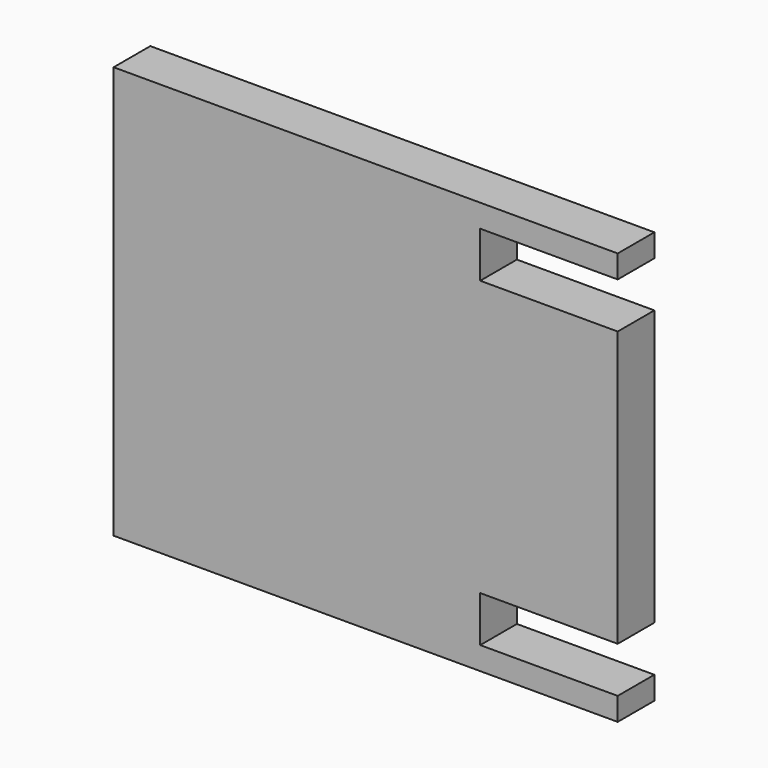
from build123d import *

# Parameters (mm, degrees)
F0_W     = 101.6
F0_H     = 50.8
F0_H_2   = 12.7
F0_H_3   = 76.2
F1_DEPTH = 12.7
F2_W     = 50.8
F2_H     = 203.2
F3_DEPTH = 25.4
F4_W     = 12.7
F4_H     = 50.8
F4_H_2   = 76.2
F5_DEPTH = 25.4
F6_W     = 139.7
F6_H     = 44.45
F7_DEPTH = 25.4


with BuildPart() as f1:
    # F0 (on Front) → F1 (new body)
    with BuildSketch(Plane.XZ):
        with Locations((-41.9671071525, -12.46464407)):
            Rectangle(F0_W, F0_H)
        with Locations((59.6328928475, -12.46464407)):
            Rectangle(F0_W, F0_H)
        with Locations((-41.9671071525, 139.93535593)):
            Rectangle(F0_W, F0_H)
        with Locations((59.6328928475, 139.93535593)):
            Rectangle(F0_W, F0_H)
        with Locations((-41.9671071525, 19.28535593)):
            Rectangle(F0_W, F0_H_2)
        with Locations((-41.9671071525, 63.73535593)):
            Rectangle(F0_W, F0_H_3)
        with Locations((-41.9671071525, 108.18535593)):
            Rectangle(F0_W, F0_H_2)
        with Locations((59.6328928475, 63.73535593)):
            Rectangle(F0_W, F0_H_3)
    extrude(amount=-F1_DEPTH)

    # F2 (on face) → F3 (cut)
    with BuildSketch(Plane.XZ):
        with Locations((85.0328928475, 63.73535593)):
            Rectangle(F2_W, F2_H)
    extrude(amount=-F3_DEPTH, mode=Mode.SUBTRACT)

    # F4 (on face) → F5 (cut)
    with BuildSketch(Plane.XZ):
        with Locations((53.2828928475, 139.93535593)):
            Rectangle(F4_W, F4_H)
        with Locations((53.2828928475, -12.46464407)):
            Rectangle(F4_W, F4_H)
        with Locations((53.2828928475, 63.73535593)):
            Rectangle(F4_W, F4_H_2)
    extrude(amount=-F5_DEPTH, mode=Mode.SUBTRACT)

    # F6 (on face) → F7 (cut)
    with BuildSketch(Plane.XZ):
        with Locations((-22.9171071525, 143.11035593)):
            Rectangle(F6_W, F6_H)
        with Locations((-22.9171071525, -15.63964407)):
            Rectangle(F6_W, F6_H)
    extrude(amount=-F7_DEPTH, mode=Mode.SUBTRACT)


solid = f1.part
